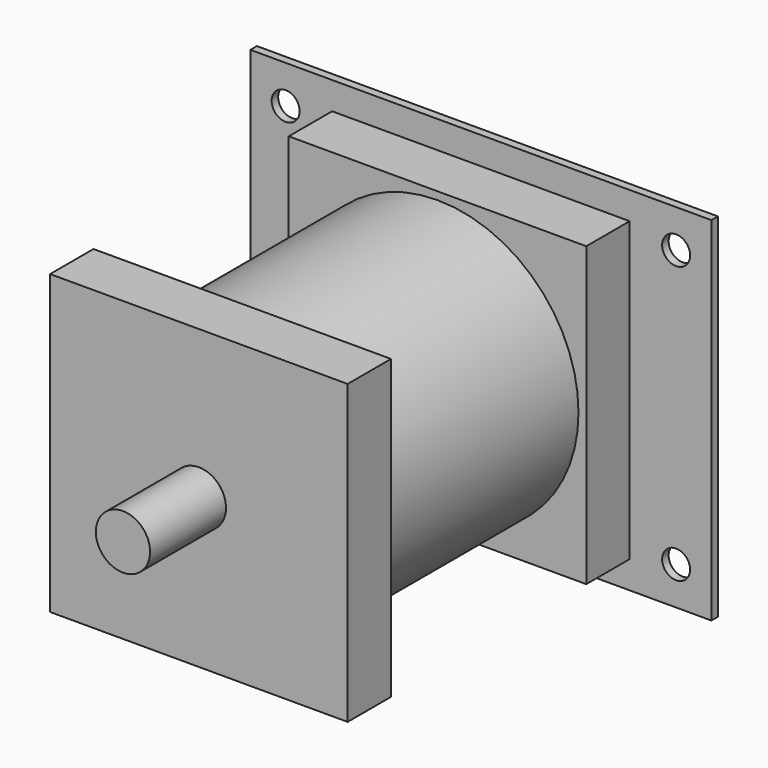
from build123d import *

# Parameters (mm, degrees)
F0_W      = 139.3444
F0_H      = 139.3444
F1_DEPTH  = 165.1
F3_W      = 139.3444
F3_H      = 139.3444
F3_R      = 66.04
F4_DEPTH  = 114.3
F5_R      = 63.5
F6_DEPTH  = 165.101
F7_R      = 63.5
F8_DEPTH  = 2.54
F9_R      = 63.5
F10_DEPTH = 6.35
F11_R     = 12.7
F12_DEPTH = 63.5
F13_W     = 215.9
F13_H     = 165.1
F14_DEPTH = 3.81
F16_D     = 13.1064
F17_R     = 63.5
F17_R_2   = 12.7
F18_DEPTH = 2.54


with BuildPart() as f1:
    # F0 (on Front) → F1 (new body)
    with BuildSketch(Plane.XZ):
        Rectangle(F0_W, F0_H)
    extrude(amount=F1_DEPTH)

    # F3 (on offset) → F4 (cut)
    with BuildSketch(Plane.XZ.offset(139.7)):
        Rectangle(F3_W, F3_H)
        Circle(F3_R, mode=Mode.SUBTRACT)
    extrude(amount=-F4_DEPTH, mode=Mode.SUBTRACT)

    # F5 (on face) → F6 (cut, through all)
    with BuildSketch(Plane.XZ.offset(165.1)):
        Circle(F5_R)
    extrude(amount=-F6_DEPTH, mode=Mode.SUBTRACT)

    # F7 (on face) → F8 (join)
    with BuildSketch(Plane(origin=(0, 0, 0), x_dir=(-1, 0, 0), z_dir=(0, 1, 0))):
        Circle(F7_R)
    extrude(amount=-F8_DEPTH)

    # F9 (on offset) → F10 (join)
    with BuildSketch(Plane.XZ.offset(139.7)):
        Circle(F9_R)
    extrude(amount=F10_DEPTH)

    # F11 (on face) → F12 (join)
    with BuildSketch(Plane.XZ.offset(146.05)):
        Circle(F11_R)
    extrude(amount=F12_DEPTH)

    # F13 (on face) → F14 (join)
    with BuildSketch(Plane(origin=(0, 0, 0), x_dir=(-1, 0, 0), z_dir=(0, 1, 0))):
        Rectangle(F13_W, F13_H)
    extrude(amount=F14_DEPTH)

    # F16 (through all)
    with Locations(Plane.XZ):
        with Locations((91.44, 64.77), (91.44, -64.77), (-91.44, 64.77), (-91.44, -64.77)):
            Hole(F16_D / 2)

    # F17 (on face) → F18 (join)
    with BuildSketch(Plane.XZ.offset(165.1)):
        Circle(F17_R)
        Circle(F17_R_2, mode=Mode.SUBTRACT)
    extrude(amount=-F18_DEPTH)


solid = f1.part
